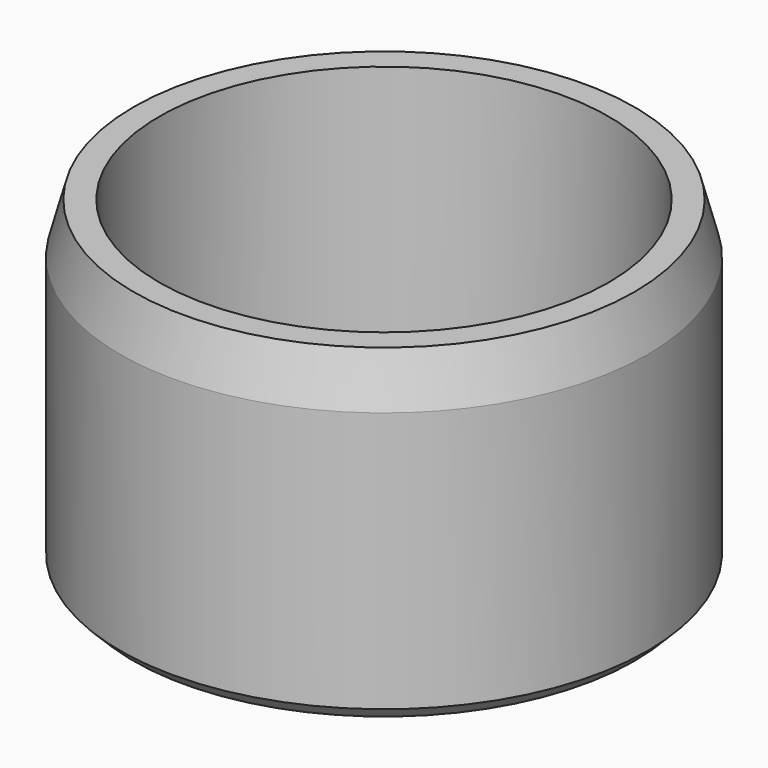
from build123d import *

# Parameters (mm, degrees)
F0_R     = 24.765
F0_R_2   = 21.082
F1_DEPTH = 30.48
F2_DEPTH = 5.08
F3_SIZE2 = 4.7397045256
F3_SIZE  = 1.27
F4_SIZE  = 1.27


with BuildPart() as f1:
    # F0 (on Top) → F1 (new body)
    with BuildSketch(Plane.XY):
        Circle(F0_R)
        Circle(F0_R_2, mode=Mode.SUBTRACT)
    extrude(amount=F1_DEPTH)

    # F0 (on Top) → F2 (join)
    with BuildSketch(Plane.XY):
        Circle(F0_R)
        Circle(F0_R_2, mode=Mode.SUBTRACT)
        Circle(F0_R_2)
    extrude(amount=F2_DEPTH)

    # F3
    f3_edges = [f1.edges().sort_by_distance(p)[0] for p in [
        (-24.765, 0, 30.48),
    ]]
    f3_side = f1.faces().sort_by_distance((-24.06454, 0, 30.48))[0]
    chamfer(f3_edges, length=F3_SIZE, length2=F3_SIZE2, reference=f3_side)

    # F4
    f4_edges = [f1.edges().sort_by_distance(p)[0] for p in [
        (-24.765, 0, 0),
    ]]
    chamfer(f4_edges, length=F4_SIZE)


solid = f1.part
